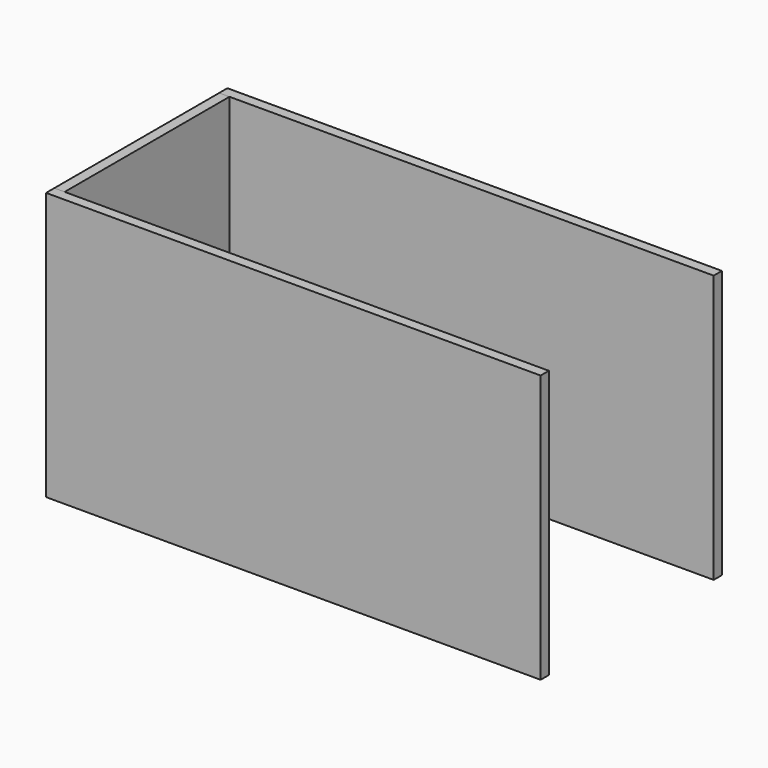
from build123d import *

# Parameters (mm, degrees)
BOX004_W     = 5
BOX004_H     = 110
BOX004_DEPTH = 130
BOX002_W     = 240
BOX002_H     = 5
BOX002_DEPTH = 130
BOX003_W     = 240
BOX003_H     = 5
BOX003_DEPTH = 130


with BuildPart() as cube004:
    # Box004 → Box004 (new body)
    with BuildSketch(Plane.XY):
        with Locations((2.5, 55)):
            Rectangle(BOX004_W, BOX004_H)
    extrude(amount=BOX004_DEPTH)


with BuildPart() as cube002:
    # Box002 → Box002 (new body)
    with BuildSketch(Plane(origin=(0, 105, 0), x_dir=(1, 0, 0), z_dir=(0, 0, 1))):
        with Locations((120, 2.5)):
            Rectangle(BOX002_W, BOX002_H)
    extrude(amount=BOX002_DEPTH)


with BuildPart() as cube003:
    # Box003 → Box003 (new body)
    with BuildSketch(Plane.XY):
        with Locations((120, 2.5)):
            Rectangle(BOX003_W, BOX003_H)
    extrude(amount=BOX003_DEPTH)


solid = Compound([cube004.part, cube002.part, cube003.part])
